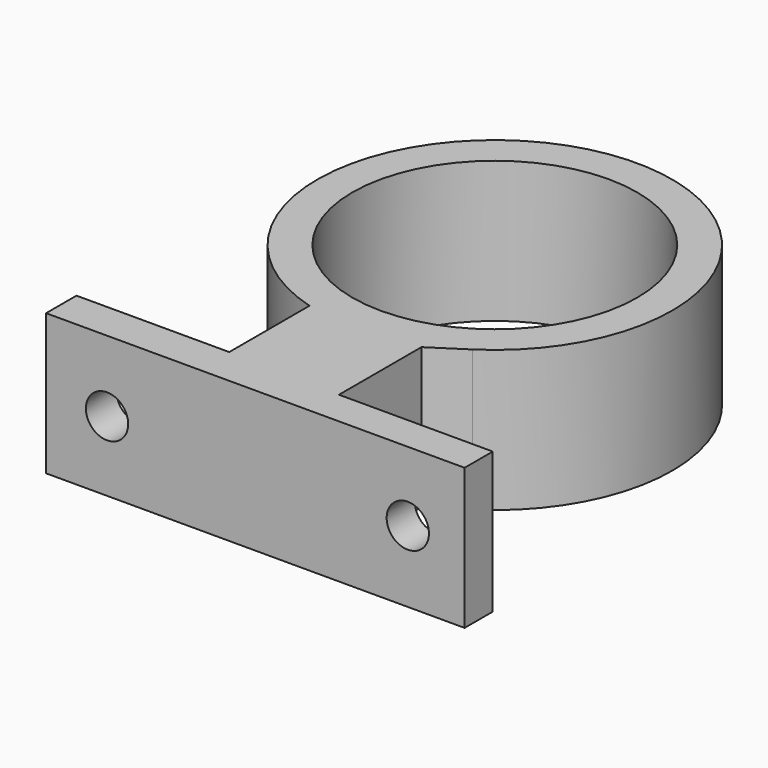
from build123d import *

# Parameters (mm, degrees)
F0_R       = 12.835001
F1_DEPTH   = 12.7
F2_R       = 1.905
F1_FACE_W  = 37.6999124221
F1_FACE_H  = 12.7
F1_FACE1_W = 13.7613505735
F1_FACE1_H = 12.7
F3_DEPTH   = 0.254
F4_DEPTH   = 4.7498


with BuildPart() as f1:
    # F0 (on Top) → F1 (new body)
    with BuildSketch(Plane.XY):
        with BuildLine():
            Line((-33.4334959418, 33.5081874669), (-30.4082068312, 35.4751199209))
            ThreePointArc((-30.4082068312, 35.4751199209), (-41.4944322517, 64.6897953257), (-43.5214952555, 33.5081874669))
            Line((-43.5214952555, 33.5081874669), (-43.5214952555, 24.2223944372))
            Line((-43.5214952555, 24.2223944372), (-57.282845829, 24.2223944372))
            Line((-57.282845829, 24.2223944372), (-57.282845829, 21.0543349588))
            Line((-57.282845829, 21.0543349588), (-19.5829334069, 21.0543349588))
            Line((-19.5829334069, 21.0543349588), (-19.5829334069, 24.2223944372))
            Line((-19.5829334069, 24.2223944372), (-33.4334959418, 24.2223944372))
            Line((-33.4334959418, 24.2223944372), (-33.4334959418, 33.5081874669))
        make_face()
        with Locations((-39.122876168, 48.8789326412)):
            Circle(F0_R, mode=Mode.SUBTRACT)
    extrude(amount=F1_DEPTH)

    # F2 (on face) + F1_face (on face) + F1_face1 (on face) → F3 (join)
    with BuildSketch(Plane.XZ.offset(-21.0543349588)):
        with Locations((-51.7907068133, 6.3078426756)):
            Circle(F2_R)
    with BuildSketch(Plane(origin=(-38.432889618, 21.0543349588, 6.35), x_dir=(1, 0, 0), z_dir=(0, -1, 0))):
        Rectangle(F1_FACE_W, F1_FACE_H)
    with BuildSketch(Plane(origin=(-50.4021705423, 24.2223944372, 6.35), x_dir=(-1, 0, 0), z_dir=(0, 1, 0))):
        Rectangle(F1_FACE1_W, F1_FACE1_H)
    extrude(amount=-F3_DEPTH, dir=(0, -1, 0))

    # F2 (on face) → F4 (cut)
    with BuildSketch(Plane.XZ.offset(-21.0543349588)):
        with Locations((-24.7001815587, 6.4406394958)):
            Circle(F2_R)
        with Locations((-51.7907068133, 6.3078426756)):
            Circle(F2_R)
    extrude(amount=-F4_DEPTH, mode=Mode.SUBTRACT)


solid = f1.part
